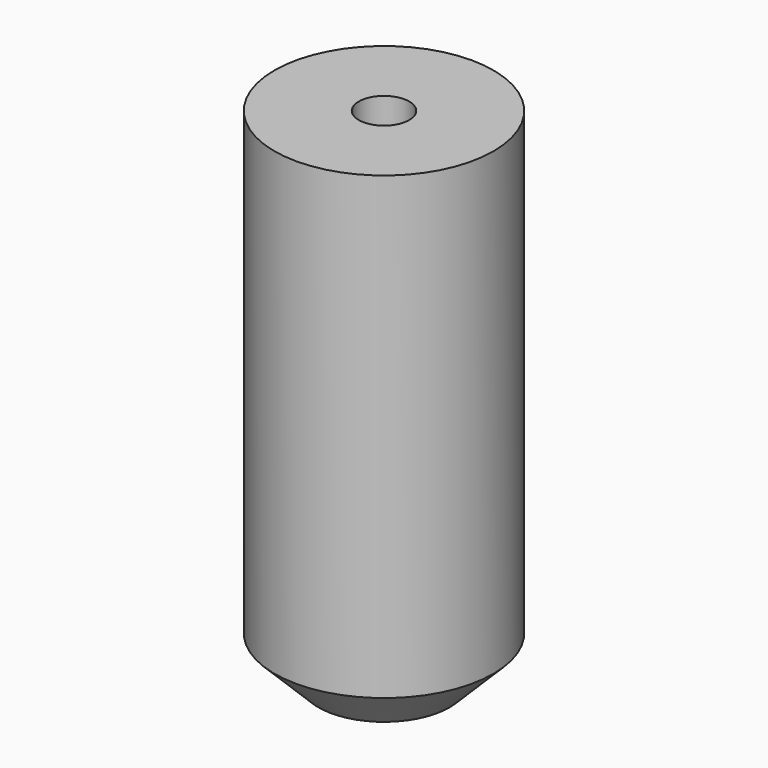
from build123d import *

# Parameters (mm, degrees)
F0_R     = 5
F0_R_2   = 2.5
F1_DEPTH = 23
F2_R     = 1.15
F3_DEPTH = 7
F4_SIZE  = 2


with BuildPart() as f1:
    # F0 (on Top) → F1 (new body)
    with BuildSketch(Plane.XY):
        with Locations((-44.115018, 43.270264)):
            Circle(F0_R)
        with Locations((-44.115018, 43.270264)):
            Circle(F0_R_2, mode=Mode.SUBTRACT)
        with Locations((-44.115018, 43.270264)):
            Circle(F0_R_2)
    extrude(amount=F1_DEPTH)

    # F2 (on face) → F3 (cut)
    with BuildSketch(Plane.XY.offset(23)):
        with Locations((-44.115018, 43.270264)):
            Circle(F2_R)
    extrude(amount=-F3_DEPTH, mode=Mode.SUBTRACT)

    # F4
    f4_edges = [f1.edges().sort_by_distance(p)[0] for p in [
        (-49.115018, 43.270264, 0),
    ]]
    chamfer(f4_edges, length=F4_SIZE)


solid = f1.part
